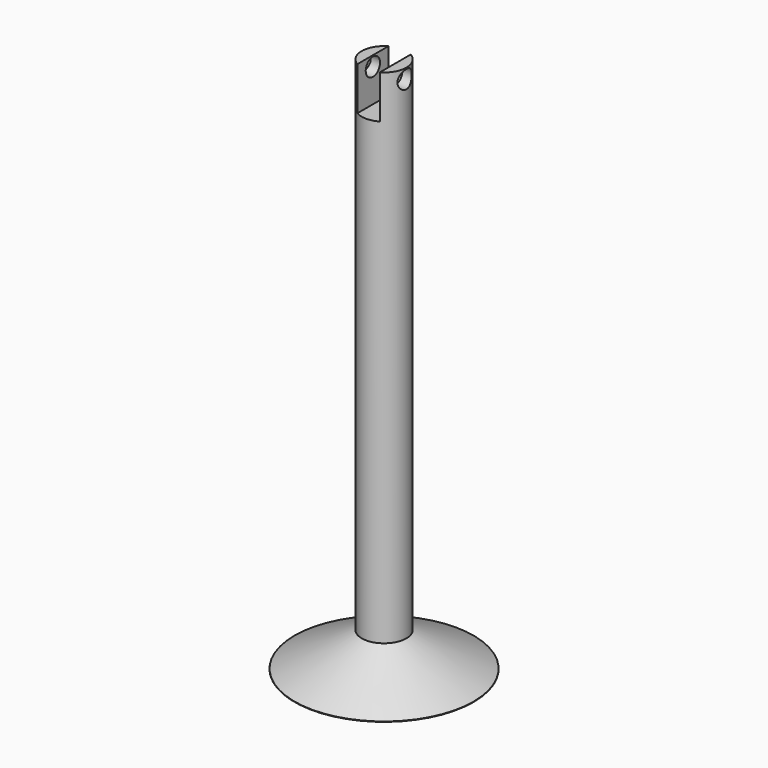
from build123d import *

# Parameters (mm, degrees)
F0_R     = 12.7
F1_DEPTH = 76.2
F4_W     = 3.175
F4_H     = 12.7
F5_DEPTH = 12.7
F6_R     = 1.27
F7_DEPTH = 12.7


with BuildPart() as f1:
    # F0 (on Top) → F1 (new body)
    with BuildSketch(Plane.XY):
        Circle(F0_R)
    extrude(amount=F1_DEPTH)

    # F2 (on Front) → F3 (revolve, cut)
    with BuildSketch(Plane.XZ):
        Polygon((-17.214077, -2.216983), (-3.175, 4.865219), (-3.175, 83.753079), (-17.214077, 83.753079), align=None)
    revolve(axis=Axis((0, 0, 76.2), (0, 0, 1)), mode=Mode.SUBTRACT)

    # F4 (on Front) → F5 (cut, symmetric)
    with BuildSketch(Plane.XZ):
        with Locations((0, 76.409727)):
            Rectangle(F4_W, F4_H)
    extrude(amount=F5_DEPTH, both=True, mode=Mode.SUBTRACT)

    # F6 (on Right) → F7 (cut, symmetric)
    with BuildSketch(Plane.YZ):
        with Locations((0, 74.752115)):
            Circle(F6_R)
    extrude(amount=F7_DEPTH, both=True, mode=Mode.SUBTRACT)


solid = f1.part
